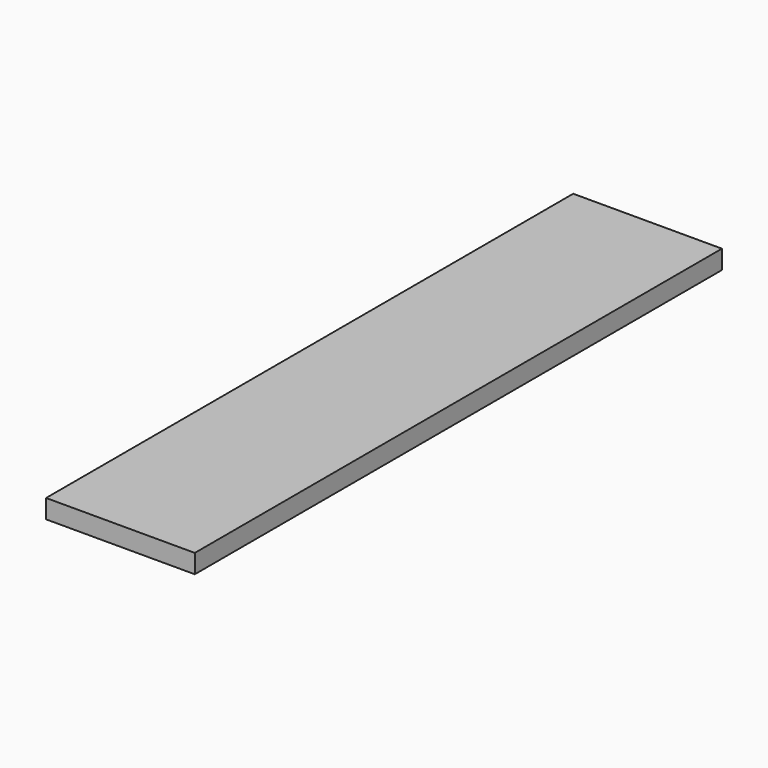
from build123d import *

# Parameters (mm, degrees)
SKETCH_W  = 15.8
SKETCH_H  = 70
PAD_DEPTH = 2


with BuildPart() as part:
    # Sketch → Pad (new body)
    with BuildSketch(Plane.XY):
        Rectangle(SKETCH_W, SKETCH_H)
    extrude(amount=PAD_DEPTH)


solid = part.part
